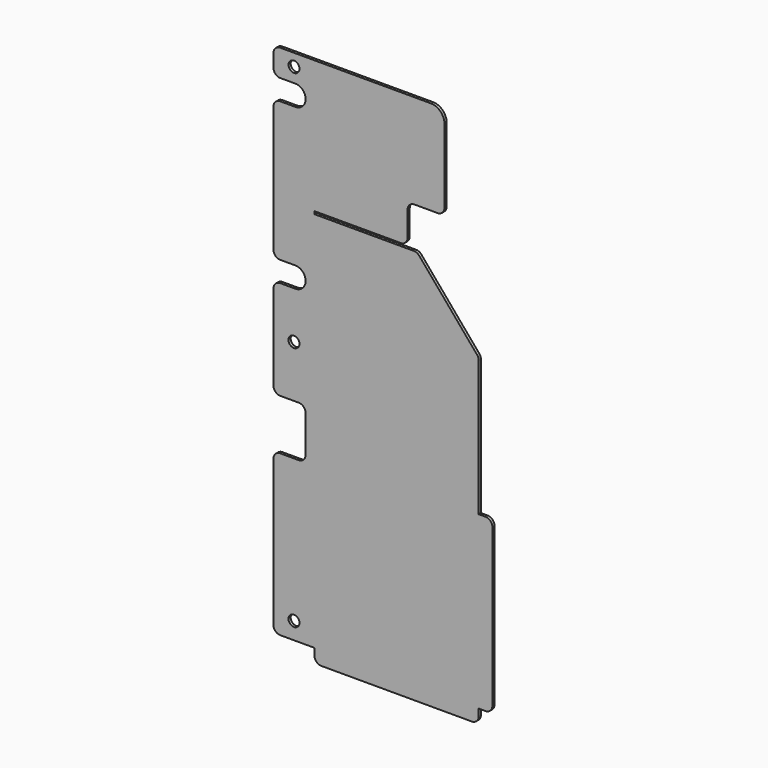
from build123d import *

# Parameters (mm, degrees)
F0_R     = 4
F1_DEPTH = 2


with BuildPart() as f1:
    # F0 (on Front) → F1 (new body)
    with BuildSketch(Plane.XZ):
        with BuildLine():
            Line((56.948081, 148.624221), (-23.051919, 148.624221))
            Line((-23.051919, 148.624221), (-53.051919, 148.624221))
            ThreePointArc((-53.051919, 148.624221), (-56.587453, 147.159755), (-58.051919, 143.624221))
            Line((-58.051919, 143.624221), (-58.051919, 134.124221))
            ThreePointArc((-58.051919, 134.124221), (-56.587453, 130.588687), (-53.051919, 129.124221))
            Line((-53.051919, 129.124221), (-42.051919, 129.124221))
            ThreePointArc((-42.051919, 129.124221), (-34.551919, 121.624221), (-42.051919, 114.124221))
            Line((-42.051919, 114.124221), (-53.051919, 114.124221))
            ThreePointArc((-53.051919, 114.124221), (-56.587453, 112.659755), (-58.051919, 109.124221))
            Line((-58.051919, 109.124221), (-58.051919, 17.124173))
            ThreePointArc((-58.051919, 17.124173), (-56.587453, 13.588639), (-53.051919, 12.124173))
            Line((-53.051919, 12.124173), (-42.078957, 12.124173))
            ThreePointArc((-42.078957, 12.124173), (-42.051919, 12.124221), (-42.024881, 12.124173))
            ThreePointArc((-42.024881, 12.124173), (-34.553421, 4.474133), (-42.325017, -2.870805))
            Line((-42.325017, -2.870805), (-53.051919, -2.870805))
            ThreePointArc((-53.051919, -2.870805), (-56.587453, -4.335271), (-58.051919, -7.870805))
            Line((-58.051919, -7.870805), (-58.051919, -70.375779))
            ThreePointArc((-58.051919, -70.375779), (-56.587453, -73.911313), (-53.051919, -75.375779))
            Line((-53.051919, -75.375779), (-39.551919, -75.375779))
            ThreePointArc((-39.551919, -75.375779), (-36.016385, -76.840245), (-34.551919, -80.375779))
            Line((-34.551919, -80.375779), (-34.551919, -107.375779))
            ThreePointArc((-34.551919, -107.375779), (-36.016385, -110.911313), (-39.551919, -112.375779))
            Line((-39.551919, -112.375779), (-53.051919, -112.375779))
            ThreePointArc((-53.051919, -112.375779), (-56.587453, -113.840245), (-58.051919, -117.375779))
            Line((-58.051919, -117.375779), (-58.051919, -224.375779))
            ThreePointArc((-58.051919, -224.375779), (-56.587453, -227.911313), (-53.051919, -229.375779))
            Line((-53.051919, -229.375779), (-28.051919, -229.375779))
            Line((-28.051919, -229.375779), (91.948081, -229.375779))
            Line((91.948081, -229.375779), (91.948081, -104.375779))
            Line((91.948081, -104.375779), (91.948081, -5.38612))
            ThreePointArc((91.948081, -5.38612), (91.642982, -3.666265), (90.76492, -2.156299))
            Line((90.76492, -2.156299), (48.446013, 47.854042))
            ThreePointArc((48.446013, 47.854042), (46.732849, 49.160139), (44.629174, 49.624221))
            Line((44.629174, 49.624221), (-28.051919, 49.624221))
            Line((-28.051919, 49.624221), (-28.051919, 51.624221))
            Line((-28.051919, 51.624221), (34.948081, 51.624221))
            ThreePointArc((34.948081, 51.624221), (38.483615, 53.088687), (39.948081, 56.624221))
            Line((39.948081, 56.624221), (39.948081, 74.635608))
            ThreePointArc((39.948081, 74.635608), (41.412547, 78.171142), (44.948081, 79.635608))
            Line((44.948081, 79.635608), (61.948081, 79.635608))
            ThreePointArc((61.948081, 79.635608), (65.483615, 81.100074), (66.948081, 84.635608))
            Line((66.948081, 84.635608), (66.948081, 138.624221))
            ThreePointArc((66.948081, 138.624221), (64.019149, 145.695289), (56.948081, 148.624221))
        make_face()
        with Locations((-43.051919, -216.875779)):
            Circle(F0_R, mode=Mode.SUBTRACT)
        with Locations((-43.051919, -37.375779)):
            Circle(F0_R, mode=Mode.SUBTRACT)
        with Locations((-43.051919, 139.624221)):
            Circle(F0_R, mode=Mode.SUBTRACT)
        with BuildLine():
            Line((91.948081, -234.375779), (91.948081, -229.375779))
            Line((91.948081, -229.375779), (-28.051919, -229.375779))
            Line((-28.051919, -229.375779), (-28.051919, -234.375779))
            ThreePointArc((-28.051919, -234.375779), (-26.587453, -237.911313), (-23.051919, -239.375779))
            Line((-23.051919, -239.375779), (86.948081, -239.375779))
            ThreePointArc((86.948081, -239.375779), (90.483615, -237.911313), (91.948081, -234.375779))
        make_face()
        with BuildLine():
            Line((96.948081, -104.375779), (91.948081, -104.375779))
            Line((91.948081, -104.375779), (91.948081, -229.375779))
            Line((91.948081, -229.375779), (96.948081, -229.375779))
            ThreePointArc((96.948081, -229.375779), (100.483615, -227.911313), (101.948081, -224.375779))
            Line((101.948081, -224.375779), (101.948081, -109.375779))
            ThreePointArc((101.948081, -109.375779), (100.483615, -105.840245), (96.948081, -104.375779))
        make_face()
    extrude(amount=F1_DEPTH)


solid = f1.part
